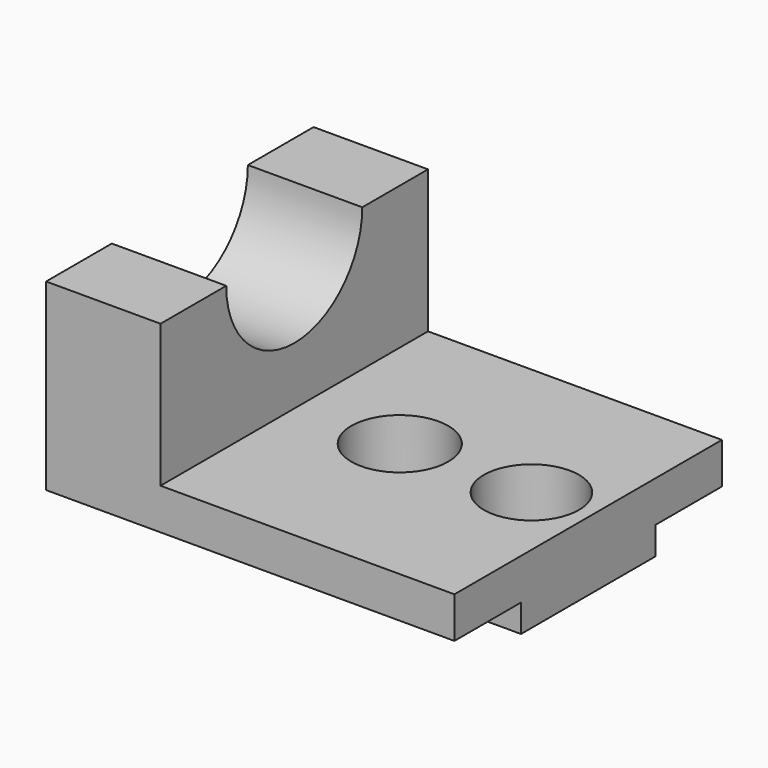
from build123d import *

# Parameters (mm, degrees)
F0_W      = 225.032530725
F0_H      = 153.073117137
F1_DEPTH  = 96.774
F2_W      = 134.5488466322
F2_H      = 153.073117137
F3_DEPTH  = 65.278
F4_R      = 22.2054195917
F4_R_2    = 21.7542654634
F5_DEPTH  = 25.4
F6_DEPTH  = 55.372
F7_W      = 38.1
F7_H      = 12.7
F8_DEPTH  = 261.874
F10_DEPTH = 107.188
F11_DEPTH = 38.1


with BuildPart() as f1:
    # F0 (on Top) → F1 (new body)
    with BuildSketch(Plane.XY):
        with Locations((0.7613264024, -2.2505223751)):
            Rectangle(F0_W, F0_H)
    extrude(amount=F1_DEPTH)

    # F2 (on face) → F3 (cut)
    with BuildSketch(Plane.XY.offset(96.774)):
        with Locations((46.0031684488, -2.2505223751)):
            Rectangle(F2_W, F2_H)
    extrude(amount=-F3_DEPTH, mode=Mode.SUBTRACT)

    # F4 (on face) → F5 (cut)
    with BuildSketch(Plane.XY.offset(31.496)):
        with Locations((25.2329688519, 0)):
            Circle(F4_R)
        with Locations((85.4943990707, 0)):
            Circle(F4_R_2)
    extrude(amount=-F5_DEPTH, mode=Mode.SUBTRACT)

    # F6 (cut): faces of the model
    f6_faces = [f1.faces().sort_by_distance(p)[0] for p in [
        (25.2329688519, 0, 6.096),
        (85.4943990707, 0, 6.096),
    ]]
    extrude(f6_faces, amount=-F6_DEPTH, mode=Mode.SUBTRACT)

    # F7 (on face) → F8 (cut)
    with BuildSketch(Plane.YZ.offset(113.2775917649)):
        with Locations((-59.7370809436, 6.35)):
            Rectangle(F7_W, F7_H)
        with Locations((55.2360361934, 6.35)):
            Rectangle(F7_W, F7_H)
    extrude(amount=-F8_DEPTH, mode=Mode.SUBTRACT)

    # F9 (on face) → F10 (cut)
    with BuildSketch(Plane.YZ.offset(-21.2712548673)):
        with BuildLine():
            Line((-41.1750888665, 96.774), (36.6740441163, 96.774))
            ThreePointArc((36.6740441163, 96.774), (-2.2505223751, 135.6985664914), (-41.1750888665, 96.774))
        make_face()
        with BuildLine():
            ThreePointArc((-41.1750888665, 96.774), (-2.2505223751, 57.8494335086), (36.6740441163, 96.774))
            Line((36.6740441163, 96.774), (-41.1750888665, 96.774))
        make_face()
    extrude(amount=-F10_DEPTH, mode=Mode.SUBTRACT)

    # F11 (cut): a face of the model
    f11_faces = [f1.faces().sort_by_distance(p)[0] for p in [
        (-111.7549389601, -2.2505223751, 45.3204327958),
    ]]
    extrude(f11_faces, amount=-F11_DEPTH, mode=Mode.SUBTRACT)


solid = f1.part
